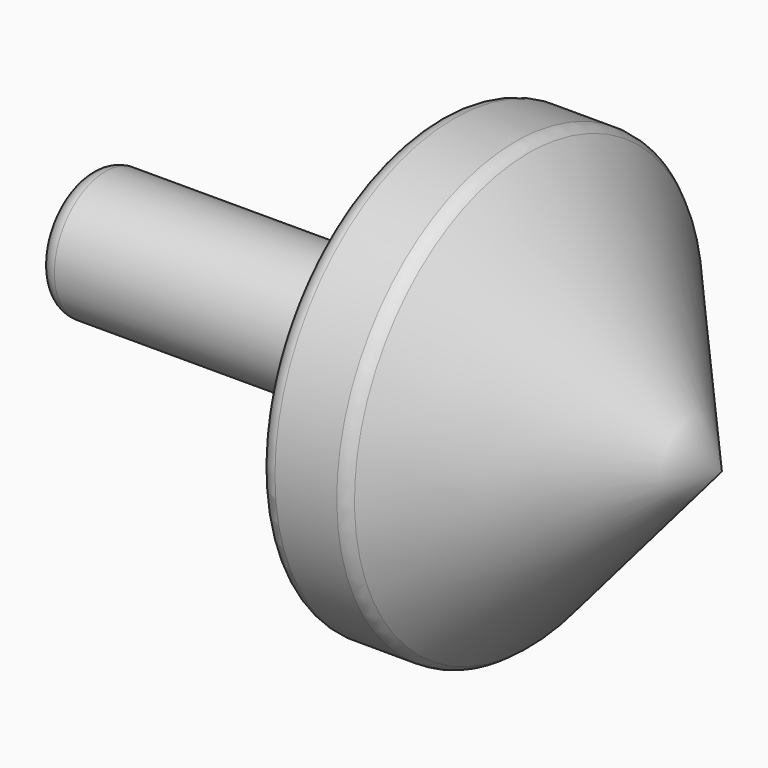
from build123d import *

# Parameters (mm, degrees)
F2_DEPTH = 25.4
F3_R     = 18.5543497172
F4_DEPTH = 101.6
F5_R     = 5.08
F6_R     = 5.08
F7_R     = 5.08


with BuildPart() as f1:
    # F0 (on Front) → F1 (revolve)
    with BuildSketch(Plane.XZ):
        Polygon((0, 65.1774853468), (0, 0), (57.9038485885, 0), align=None)
    revolve(axis=Axis((28.9519242942, 0, 0), (1, 0, 0)))

    # F2 (add): a face of the model
    f2_faces = [f1.faces().sort_by_distance(p)[0] for p in [
        (0, 0, 0),
    ]]
    extrude(f2_faces, amount=F2_DEPTH)

    # F3 (on face) → F4 (join)
    with BuildSketch(Plane(origin=(-25.4, 0, 0), x_dir=(0, -1, 0), z_dir=(-1, 0, 0))):
        Circle(F3_R)
    extrude(amount=F4_DEPTH)

    # F5
    f5_edges = [f1.edges().sort_by_distance(p)[0] for p in [
        (0, 0, -65.177485),
    ]]
    fillet(f5_edges, radius=F5_R)

    # F6
    f6_edges = [f1.edges().sort_by_distance(p)[0] for p in [
        (-25.4, 0, -65.177485),
    ]]
    fillet(f6_edges, radius=F6_R)

    # F7
    f7_edges = [f1.edges().sort_by_distance(p)[0] for p in [
        (-127, 18.55435, 0),
    ]]
    fillet(f7_edges, radius=F7_R)


solid = f1.part
